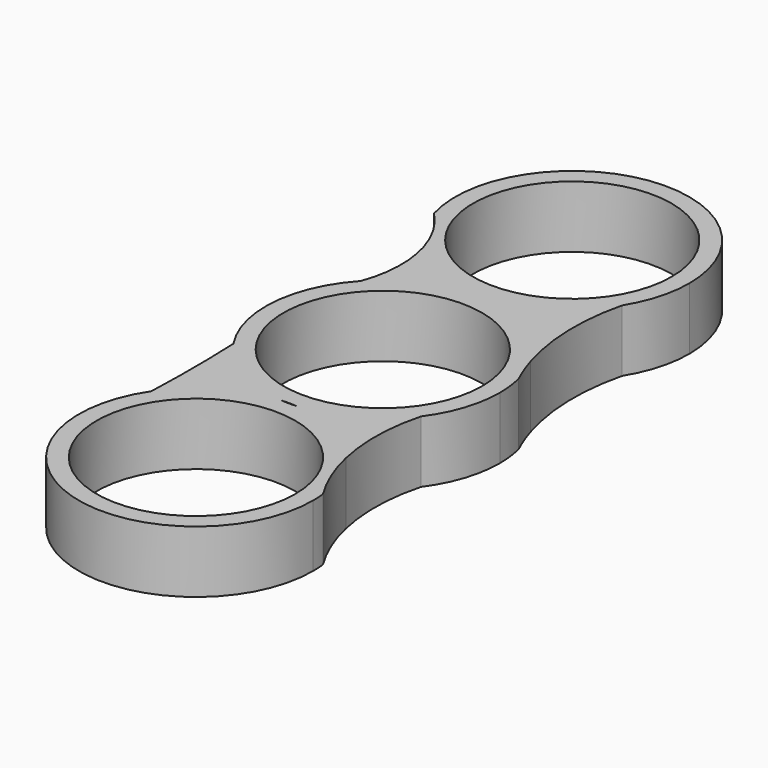
from build123d import *

# Parameters (mm, degrees)
F0_R     = 11.2
F1_DEPTH = 7


with BuildPart() as f1:
    # F0 (on Top) → F1 (new body)
    with BuildSketch(Plane.XY):
        with BuildLine():
            ThreePointArc((-9.3860565148, 17.4241493827), (1.4719393522, 13.5877428912), (11.2096419669, 19.7352006425))
            ThreePointArc((11.2096419669, 19.7352006425), (12.6926607526, 23.0810056893), (13.2, 26.7054177821))
            ThreePointArc((13.2, 26.7054177821), (-1.8259184841, 39.7785207683), (-12.6948517711, 23.0886874203))
            ThreePointArc((-12.6948517711, 23.0886874203), (-10.6918061305, 20.4600722356), (-9.3860565148, 17.4241493827))
        make_face()
        with Locations((0, 26.7054177821)):
            Circle(F0_R, mode=Mode.SUBTRACT)
        with BuildLine():
            ThreePointArc((10.3983829911, -18.2089118145), (6.1809331597, -14.6764907536), (0.8898767486, -13.1699703634))
            ThreePointArc((0.8898767486, -13.1699703634), (0, -13.2), (-0.8898767486, -13.1699703634))
            ThreePointArc((-0.8898767486, -13.1699703634), (-6.5886727105, -14.9018730616), (-10.9459960633, -18.9625990523))
            ThreePointArc((-10.9459960633, -18.9625990523), (-3.8569970161, -38.9638693553), (13.2, -26.3399407268))
            ThreePointArc((13.2, -26.3399407268), (13.178437181, -25.5857567522), (13.1138191716, -24.8340367675))
            ThreePointArc((13.1138191716, -24.8340367675), (11.4794744882, -21.6348550748), (10.3983829911, -18.2089118145))
        make_face()
        with Locations((0, -26.3399407268)):
            Circle(F0_R, mode=Mode.SUBTRACT)
        with BuildLine():
            ThreePointArc((-9.6719126636, 8.9829897823), (1.6474776381, 13.0967865307), (11.5953700325, 6.3077249314))
            ThreePointArc((11.5953700325, 6.3077249314), (10.4885235534, 12.9952070194), (11.2096419669, 19.7352006425))
            ThreePointArc((11.2096419669, 19.7352006425), (1.4719393522, 13.5877428912), (-9.3860565148, 17.4241493827))
            ThreePointArc((-9.3860565148, 17.4241493827), (-8.8531701412, 13.1806834241), (-9.6719126636, 8.9829897823))
        make_face()
        with BuildLine():
            ThreePointArc((10.3983829911, -18.2089118145), (9.8711754044, -13.0237699093), (10.6022015505, -7.8634167053))
            ThreePointArc((10.6022015505, -7.8634167053), (6.329047625, -11.5837453425), (0.8898767486, -13.1699703634))
            ThreePointArc((0.8898767486, -13.1699703634), (6.1809331597, -14.6764907536), (10.3983829911, -18.2089118145))
        make_face()
        with BuildLine():
            ThreePointArc((-10.9459960633, -18.9625990523), (-6.5886727105, -14.9018730616), (-0.8898767486, -13.1699703634))
            ThreePointArc((-0.8898767486, -13.1699703634), (-6.6007640138, -11.4310941923), (-10.9615736605, -7.3541758808))
            ThreePointArc((-10.9615736605, -7.3541758808), (-10.8335769452, -13.1582261569), (-10.9459960633, -18.9625990523))
        make_face()
        with BuildLine():
            ThreePointArc((10.6022015505, -7.8634167053), (12.5337356855, -4.1407088483), (13.2, 0))
            ThreePointArc((13.2, 0), (13.1072294752, 1.5622213305), (12.8302218961, 3.1024838591))
            ThreePointArc((12.8302218961, 3.1024838591), (12.1579586928, 4.6839777762), (11.5953700325, 6.3077249314))
            ThreePointArc((11.5953700325, 6.3077249314), (1.6474776381, 13.0967865307), (-9.6719126636, 8.9829897823))
            ThreePointArc((-9.6719126636, 8.9829897823), (-13.1590628445, 1.0387805607), (-10.9615736605, -7.3541758808))
            ThreePointArc((-10.9615736605, -7.3541758808), (-6.6007640138, -11.4310941923), (-0.8898767486, -13.1699703634))
            ThreePointArc((-0.8898767486, -13.1699703634), (0, -13.1399407268), (0.8898767486, -13.1699703634))
            ThreePointArc((0.8898767486, -13.1699703634), (6.329047625, -11.5837453425), (10.6022015505, -7.8634167053))
        make_face()
        Circle(F0_R, mode=Mode.SUBTRACT)
    extrude(amount=F1_DEPTH)


solid = f1.part
